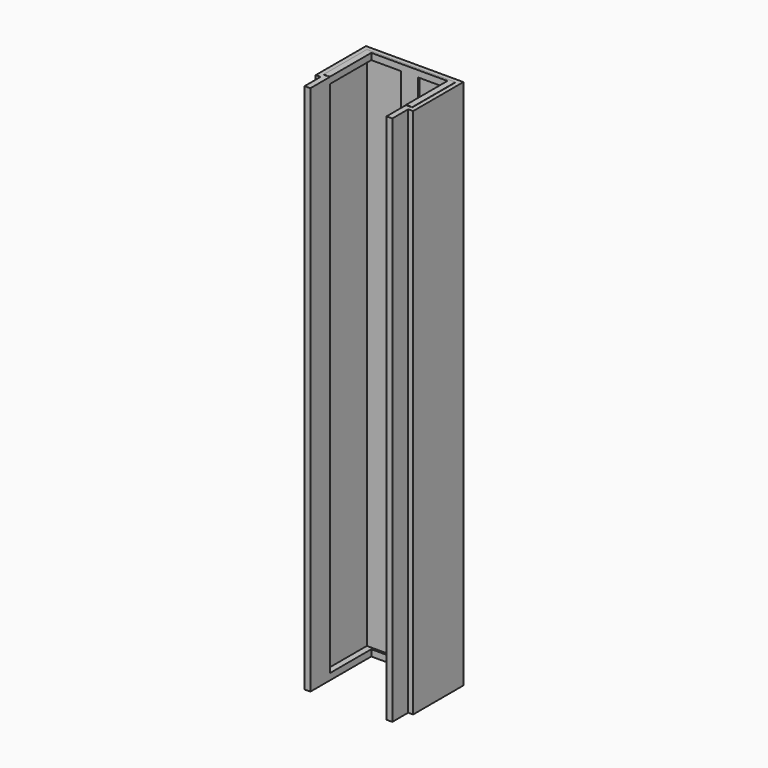
from build123d import *

# Parameters (mm, degrees)
PAD002_DEPTH = 1.45
PAD001_DEPTH = 1.45
PAD_DEPTH    = 120


with BuildPart() as upper_slide:
    # Sketch002 → Pad002 (new body)
    with BuildSketch(Plane(origin=(1.4, -0.5, 118.6), x_dir=(1, 0, 0), z_dir=(0, 0, 1))):
        Polygon((0, -11.7), (-1.4, -11.7), (-1.4, 0.5), (18.6, 0.5), (18.6, -11.7), (17.2, -11.7), (17.2, 0), (0, 0), align=None)
    extrude(amount=PAD002_DEPTH)


with BuildPart() as lower_slide:
    # Sketch001 → Pad001 (new body)
    with BuildSketch(Plane(origin=(1.4, -0.5, 0), x_dir=(1, 0, 0), z_dir=(0, 0, 1))):
        Polygon((0, -11.7), (-1.4, -11.7), (-1.4, 0.5), (18.6, 0.5), (18.6, -11.7), (17.2, -11.7), (17.2, 0), (0, 0), align=None)
    extrude(amount=PAD001_DEPTH)


with BuildPart() as shell:
    # Sketch → Pad (new body)
    with BuildSketch(Plane.XY):
        Polygon((-1, 1), (21, 1), (21, -13.2), (19.9, -13.2), (19.9, -17.7), (18.6, -17.7), (18.6, -12.2), (20, -12.2), (20, 0), (11.9, 0), (11.9, -0.5), (8.1, -0.5), (8.1, 0), (0, 0), (0, -12.2), (1.4, -12.2), (1.4, -17.7), (0.1, -17.7), (0.1, -13.2), (-1, -13.2), align=None)
    extrude(amount=PAD_DEPTH)

    # Fusion: union upper_slide, lower_slide
    add(upper_slide.part)
    add(lower_slide.part)


solid = shell.part
